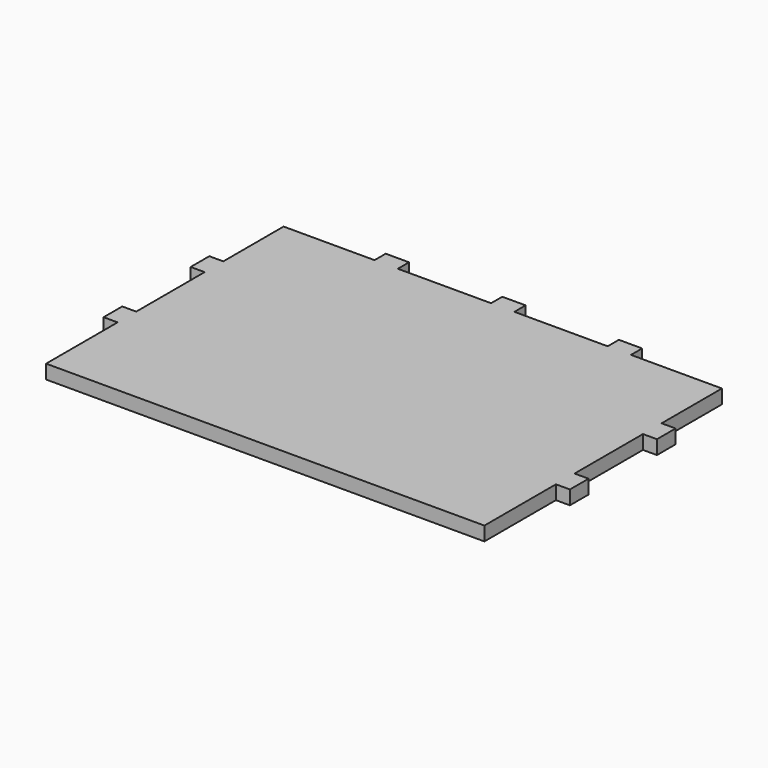
from build123d import *

# Parameters (mm, degrees)
F2_DEPTH = 18


with BuildPart() as f2:
    # F1 (on Top) → F2 (new body)
    with BuildSketch(Plane.XY):
        Polygon((-582, 255), (-582, 145), (-600, 145), (-600, 115), (-582, 115), (-582, 0), (-18, 0), (-18, 115), (0, 115), (0, 145), (-18, 145), (-18, 255), (0, 255), (0, 285), (-18, 285), (-18, 382), (-135, 382), (-135, 400), (-165, 400), (-165, 382), (-285, 382), (-285, 400), (-315, 400), (-315, 382), (-435, 382), (-435, 400), (-465, 400), (-465, 382), (-582, 382), (-582, 285), (-600, 285), (-600, 255), align=None)
    extrude(amount=F2_DEPTH)


with BuildPart() as f3_1:
    # F3: copy of F2
    add(f2.part)


solid = Compound([f2.part, f3_1.part])
